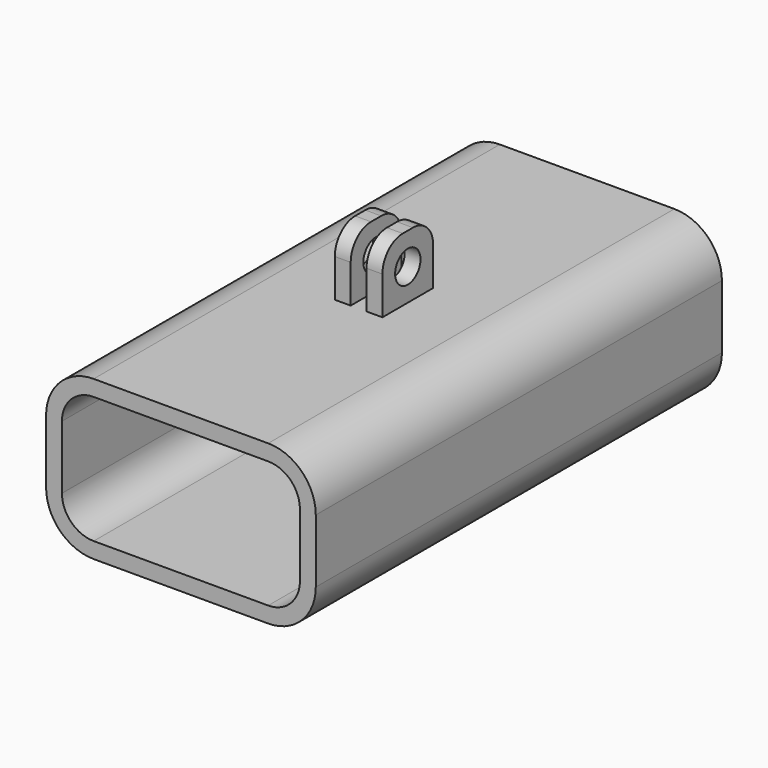
from build123d import *

# Parameters (mm, degrees)
F1_DEPTH = 101.6
F2_W     = 3.175
F2_H     = 12.7
F3_DEPTH = 12.7
F5_D     = 6.35
F6_R     = 5.08


with BuildPart() as f1:
    # F0 (on Front) → F1 (new body)
    with BuildSketch(Plane.XZ):
        with BuildLine():
            Line((17.4625, 15.875), (-17.4625, 15.875))
            ThreePointArc((-17.4625, 15.875), (-24.197692, 13.085192), (-26.9875, 6.35))
            Line((-26.9875, 6.35), (-26.9875, -6.35))
            ThreePointArc((-26.9875, -6.35), (-24.197692, -13.085192), (-17.4625, -15.875))
            Line((-17.4625, -15.875), (17.4625, -15.875))
            ThreePointArc((17.4625, -15.875), (24.197692, -13.085192), (26.9875, -6.35))
            Line((26.9875, -6.35), (26.9875, 6.35))
            ThreePointArc((26.9875, 6.35), (24.197692, 13.085192), (17.4625, 15.875))
        make_face()
        with BuildLine():
            ThreePointArc((-23.8125, 6.35), (-21.952628, 10.840128), (-17.4625, 12.7))
            Line((-17.4625, 12.7), (17.4625, 12.7))
            ThreePointArc((17.4625, 12.7), (21.952628, 10.840128), (23.8125, 6.35))
            Line((23.8125, 6.35), (23.8125, -6.35))
            ThreePointArc((23.8125, -6.35), (21.952628, -10.840128), (17.4625, -12.7))
            Line((17.4625, -12.7), (-17.4625, -12.7))
            ThreePointArc((-17.4625, -12.7), (-21.952628, -10.840128), (-23.8125, -6.35))
            Line((-23.8125, -6.35), (-23.8125, 6.35))
        make_face(mode=Mode.SUBTRACT)
    extrude(amount=F1_DEPTH)

    # F2 (on face) → F3 (join)
    with BuildSketch(Plane.XY.offset(15.875)):
        with Locations((-3.175, -50.8)):
            Rectangle(F2_W, F2_H)
        with Locations((3.175, -50.8)):
            Rectangle(F2_W, F2_H)
    extrude(amount=F3_DEPTH)

    # F5 (through all)
    with Locations(Plane.YZ.offset(4.7625)):
        with Locations((-50.8, 22.225)):
            Hole(F5_D / 2)

    # F6
    f6_edges = [f1.edges().sort_by_distance(p)[0] for p in [
        (-3.175, -57.15, 28.575),
        (3.175, -57.15, 28.575),
        (3.175, -44.45, 28.575),
        (-3.175, -44.45, 28.575),
    ]]
    fillet(f6_edges, radius=F6_R)


solid = f1.part
